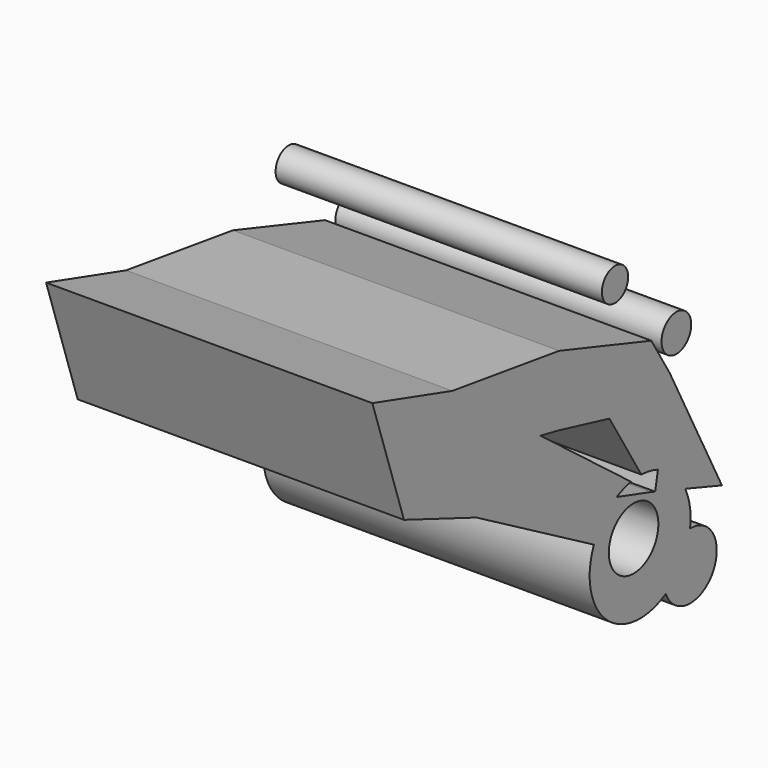
from build123d import *

# Parameters (mm, degrees)
F0_R     = 24.1095947755
F1_DEPTH = 254
F0_R_2   = 12.7785133022
F0_R_3   = 14.4420909011


with BuildPart() as f1:
    # F0 (on Right) → F1 (new body)
    with BuildSketch(Plane.YZ):
        Polygon((-412.9776954651, 229.7314852476), (-490.7785356045, 252.9627084732), (-401.3037874862, 181.8995006968), align=None)
        Polygon((-401.3037874862, 181.8995006968), (-490.7785356045, 252.9627084732), (-460.0200355053, 160.4773849249), (-389.4565403461, 133.3572864532), align=None)
        Polygon((-412.9776954651, 229.7314852476), (-401.3037874862, 181.8995006968), (-396.6937959194, 178.2381236553), (-327.2165126381, 164.1761440375), align=None)
        with BuildLine():
            Line((-396.6937959194, 178.2381236553), (-401.3037874862, 181.8995006968))
            Line((-401.3037874862, 181.8995006968), (-389.4565403461, 133.3572864532))
            Line((-389.4565403461, 133.3572864532), (-253.0991645965, 91.9789276683))
            ThreePointArc((-253.0991645965, 91.9789276683), (-246.2828425341, 94.9303750999), (-239.0993153958, 96.8198793348))
            Line((-239.0993153958, 96.8198793348), (-327.2165126381, 164.1761440375))
            Line((-327.2165126381, 164.1761440375), (-396.6937959194, 178.2381236553))
        make_face()
        Polygon((-308.9417219162, 214.8996591568), (-412.9776954651, 229.7314852476), (-327.2165126381, 164.1761440375), (-308.9417219162, 160.4773849249), align=None)
        with BuildLine():
            Line((-253.0991645965, 91.9789276683), (-389.4565403461, 133.3572864532))
            Line((-389.4565403461, 133.3572864532), (-275.1655883638, 68.3329063543))
            ThreePointArc((-275.1655883638, 68.3329063543), (-266.1351458231, 82.0248976928), (-253.0991645965, 91.9789276683))
        make_face()
        Polygon((-260.0899934769, 148.5868692398), (-308.9417219162, 214.8996591568), (-308.9417219162, 160.4773849249), align=None)
        Polygon((-219.3802595139, 185.4535496204), (-308.9417219162, 214.8996591568), (-260.0899934769, 148.5868692398), (-254.1415393319, 190.3115506303), (-201.2870460749, 155.74683249), align=None)
        with BuildLine():
            Line((-219.3802595139, 81.7467495799), (-253.0991645965, 91.9789276683))
            ThreePointArc((-253.0991645965, 91.9789276683), (-266.1351458231, 82.0248976928), (-275.1655883638, 68.3329063543))
            ThreePointArc((-275.1655883638, 68.3329063543), (-262.8511867206, 11.8184231885), (-205.2806188906, 6.2362179745))
            ThreePointArc((-205.2806188906, 6.2362179745), (-202.7389873258, 30.0715955347), (-181.6450349187, 41.4571252236))
            ThreePointArc((-181.6450349187, 41.4571252236), (-181.2617972, 44.9813576149), (-181.1338289572, 48.52405563))
            ThreePointArc((-181.1338289572, 48.52405563), (-182.4484000439, 59.8098424753), (-186.3217257629, 70.4913418895))
            Line((-186.3217257629, 70.4913418895), (-215.5657344576, 80.4480218451))
            Line((-215.5657344576, 80.4480218451), (-219.3802595139, 81.7467495799))
        make_face()
        with Locations((-236.5688234568, 56.9134391844)):
            Circle(F0_R, mode=Mode.SUBTRACT)
        with BuildLine():
            Line((-201.2870460749, 155.74683249), (-260.0899934769, 148.5868692398))
            Line((-260.0899934769, 148.5868692398), (-229.0431203965, 97.6119178034))
            ThreePointArc((-229.0431203965, 97.6119178034), (-220.8426901154, 96.7195308064), (-212.9073592029, 94.4669912047))
            Line((-212.9073592029, 94.4669912047), (-201.2870460749, 155.74683249))
        make_face()
        Polygon((-254.1415393319, 190.3115506303), (-260.0899934769, 148.5868692398), (-201.2870460749, 155.74683249), align=None)
        with BuildLine():
            ThreePointArc((-181.6450349187, 41.4571252236), (-189.4635480745, 21.1628880739), (-205.2806188906, 6.2362179745))
            ThreePointArc((-205.2806188906, 6.2362179745), (-176.5455247451, -9.5164689386), (-155.6673680615, 15.7413091511))
            ThreePointArc((-155.6673680615, 15.7413091511), (-163.2920888612, 34.0179497862), (-181.6450349187, 41.4571252236))
        make_face()
        with BuildLine():
            ThreePointArc((-181.6450349187, 41.4571252236), (-202.7389873258, 30.0715955347), (-205.2806188906, 6.2362179745))
            ThreePointArc((-205.2806188906, 6.2362179745), (-189.4635480745, 21.1628880739), (-181.6450349187, 41.4571252236))
        make_face()
        with BuildLine():
            Line((-150.6260484457, 58.3380684257), (-201.2870460749, 155.74683249))
            Line((-201.2870460749, 155.74683249), (-212.9073592029, 94.4669912047))
            ThreePointArc((-212.9073592029, 94.4669912047), (-197.3516457938, 84.9884016922), (-186.3217257629, 70.4913418895))
            Line((-186.3217257629, 70.4913418895), (-150.6260484457, 58.3380684257))
        make_face()
        with BuildLine():
            Line((-212.9073592029, 94.4669912047), (-215.5657344576, 80.4480218451))
            Line((-215.5657344576, 80.4480218451), (-186.3217257629, 70.4913418895))
            ThreePointArc((-186.3217257629, 70.4913418895), (-197.3516457938, 84.9884016922), (-212.9073592029, 94.4669912047))
        make_face()
    extrude(amount=F1_DEPTH)


with BuildPart() as f1b:
    # F0 (on Right) → F1, piece 2 (new body)
    with BuildSketch(Plane.YZ):
        with Locations((-254.6620368958, 238.3210808039)):
            Circle(F0_R_2)
    extrude(amount=F1_DEPTH)


with BuildPart() as f1c:
    # F0 (on Right) → F1, piece 3 (new body)
    with BuildSketch(Plane.YZ):
        with Locations((-194.9544250965, 180.7850450277)):
            Circle(F0_R_3)
    extrude(amount=F1_DEPTH)


solid = Compound([f1.part, f1b.part, f1c.part])
